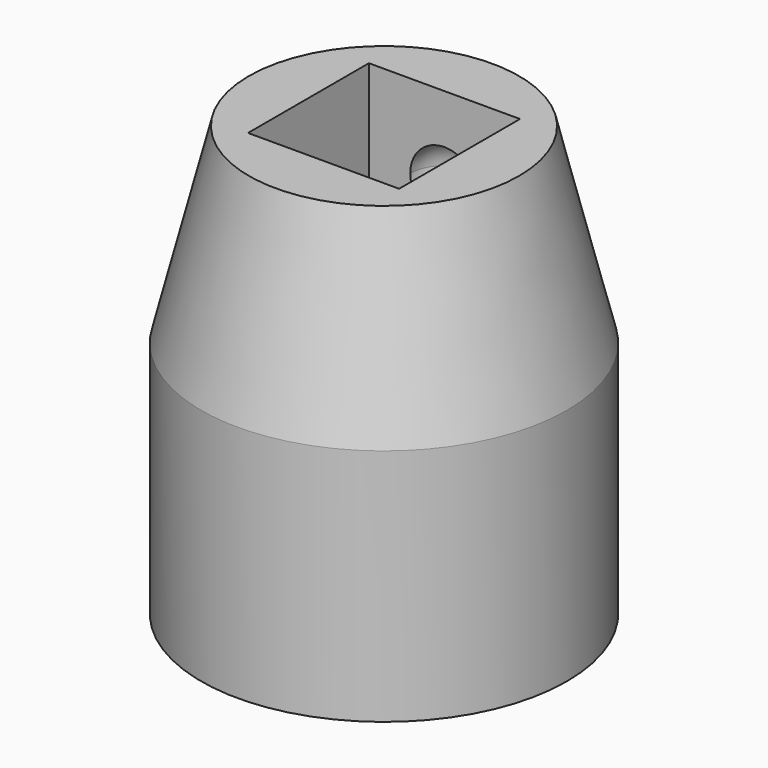
from build123d import *

# Parameters (mm, degrees)
F0_R      = 11.5
F1_DEPTH  = 6
F3_R      = 11.5
F3_R_2    = 7.75
F4_DEPTH  = 9
F6_R      = 8.5
F7_R      = 11.5
F9_W      = 9.5
F9_H      = 9.5
F10_DEPTH = 10


with BuildPart() as f1:
    # F0 (on Top) → F1 (new body)
    with BuildSketch(Plane.XY):
        Circle(F0_R)
        Polygon((4.494297, 7.47025), (8.716574, -0.15705), (4.222277, -7.6273), (-4.494297, -7.47025), (-8.716574, 0.15705), (-4.222277, 7.6273), align=None, mode=Mode.SUBTRACT)
    extrude(amount=F1_DEPTH)

    # F3 (on offset) → F4 (join)
    with BuildSketch(Plane.XY.offset(6)):
        Circle(F3_R)
        Circle(F3_R_2, mode=Mode.SUBTRACT)
    extrude(amount=F4_DEPTH)

    # F6 (on offset) → F8 section 0
    with BuildSketch(Plane.XY.offset(27)):
        Circle(F6_R)
    # F7 (on face) → F8 section 1
    with BuildSketch(Plane.XY.offset(15)):
        Circle(F7_R)
    loft()

    # F9 (on face) → F10 (cut)
    with BuildSketch(Plane.XY.offset(27)):
        Rectangle(F9_W, F9_H)
    extrude(amount=-F10_DEPTH, mode=Mode.SUBTRACT)

    # F11 (on face) → F12 (revolve, cut)
    with BuildSketch(Plane.XZ.offset(-4.75)):
        with BuildLine():
            ThreePointArc((2.15, 21.75), (1.52028, 23.27028), (0, 23.9))
            Line((0, 23.9), (0, 21.75))
            Line((0, 21.75), (0, 19.6))
            ThreePointArc((0, 19.6), (1.52028, 20.22972), (2.15, 21.75))
        make_face()
    revolve(axis=Axis((0, 4.75, 24.375), (0, 0, -1)), mode=Mode.SUBTRACT)


solid = f1.part
